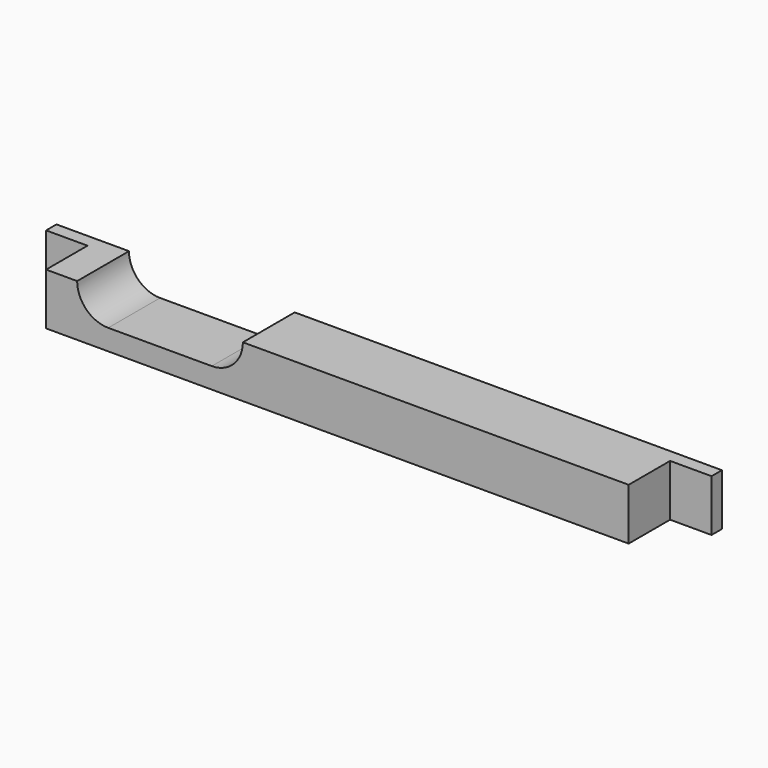
from build123d import *

# Parameters (mm, degrees)
PAD_DEPTH    = 10
SKETCH001_W  = 112.5
SKETCH001_H  = 11
PAD001_DEPTH = 10
POCKET_DEPTH = 10.5


with BuildPart() as part:
    # Sketch → Pad (new body)
    with BuildSketch(Plane.XY):
        Polygon((0, 0), (0, 2.51), (5, 2.51), (123.5, 2.51), (128.5, 2.51), (128.5, 0), align=None)
    extrude(amount=PAD_DEPTH)

    # Sketch001 → Pad001 (join)
    with BuildSketch(Plane.XY):
        with Locations((64.25, -4.5)):
            Rectangle(SKETCH001_W, SKETCH001_H)
    extrude(amount=PAD001_DEPTH)

    # Sketch002 → Pocket (cut, symmetric)
    with BuildSketch(Plane.XZ):
        with BuildLine():
            ThreePointArc((20, 16), (14, 10), (20, 4))
            Line((20, 4), (40, 4))
            ThreePointArc((40, 4), (46, 10), (40, 16))
            Line((40, 16), (20, 16))
        make_face()
    extrude(amount=POCKET_DEPTH, both=True, mode=Mode.SUBTRACT)


solid = part.part
